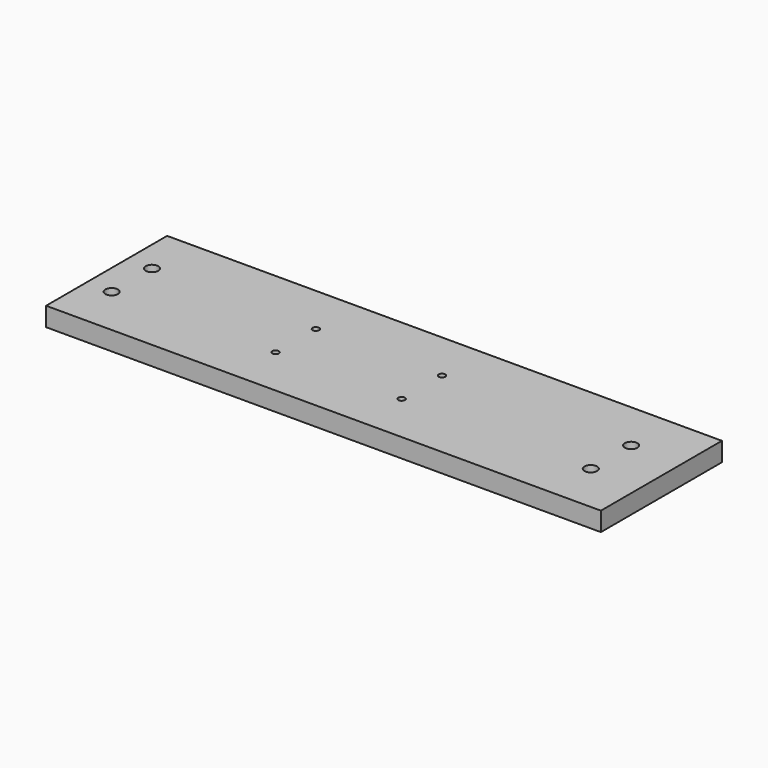
from build123d import *

# Parameters (mm, degrees)
F0_W     = 279.4
F0_H     = 76.2
F0_R     = 3.175
F0_R_2   = 1.651
F1_DEPTH = 4.7625


with BuildPart() as f1:
    # F0 (on Top) → F1 (new body, symmetric)
    with BuildSketch(Plane.XY):
        Rectangle(F0_W, F0_H)
        with Locations((-127, -12.7)):
            Circle(F0_R, mode=Mode.SUBTRACT)
        with Locations((-44.45, -12.7)):
            Circle(F0_R_2, mode=Mode.SUBTRACT)
        with Locations((19.05, -12.7)):
            Circle(F0_R_2, mode=Mode.SUBTRACT)
        with Locations((114.3, -12.7)):
            Circle(F0_R, mode=Mode.SUBTRACT)
        with Locations((-127, 12.7)):
            Circle(F0_R, mode=Mode.SUBTRACT)
        with Locations((-44.45, 12.7)):
            Circle(F0_R_2, mode=Mode.SUBTRACT)
        with Locations((19.05, 12.7)):
            Circle(F0_R_2, mode=Mode.SUBTRACT)
        with Locations((114.3, 12.7)):
            Circle(F0_R, mode=Mode.SUBTRACT)
    extrude(amount=F1_DEPTH, both=True)


solid = f1.part
